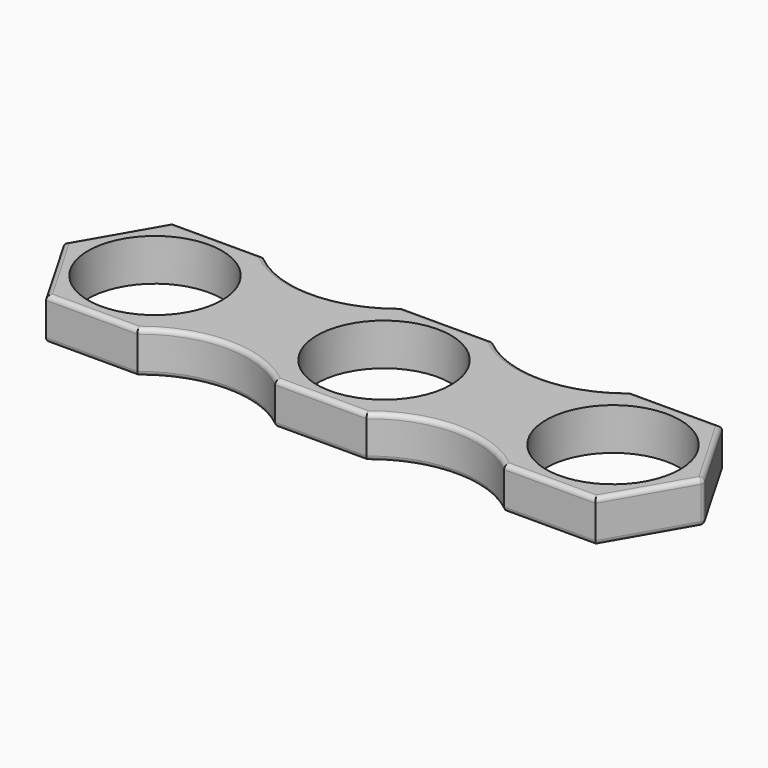
from build123d import *

# Parameters (mm, degrees)
F0_R     = 11
F1_DEPTH = 6.9088
F2_R     = 0.762


with BuildPart() as f1:
    # F0 (on Top) → F1 (new body)
    with BuildSketch(Plane.XY):
        with BuildLine():
            ThreePointArc((-30.12, -12.990381), (-18.81, -8.92943), (-7.5, -12.990381))
            Line((-7.5, -12.990381), (-15, 0))
            Line((-15, 0), (-7.5, 12.990381))
            ThreePointArc((-7.5, 12.990381), (-18.81, 8.92943), (-30.12, 12.990381))
            Line((-30.12, 12.990381), (-22.62, 0))
            Line((-22.62, 0), (-30.12, -12.990381))
        make_face()
        Polygon((22.62, 0), (30.12, -12.990381), (45.12, -12.990381), (52.62, 0), (45.12, 12.990381), (30.12, 12.990381), align=None)
        with Locations((37.62, 0)):
            Circle(F0_R, mode=Mode.SUBTRACT)
        Polygon((-45.12, -12.990381), (-30.12, -12.990381), (-22.62, 0), (-30.12, 12.990381), (-45.12, 12.990381), (-52.62, 0), align=None)
        with Locations((-37.62, 0)):
            Circle(F0_R, mode=Mode.SUBTRACT)
        Polygon((7.5, -12.990381), (15, 0), (7.5, 12.990381), (-7.5, 12.990381), (-15, 0), (-7.5, -12.990381), align=None)
        Circle(F0_R, mode=Mode.SUBTRACT)
        with BuildLine():
            Line((7.5, 12.990381), (15, 0))
            Line((15, 0), (7.5, -12.990381))
            ThreePointArc((7.5, -12.990381), (18.81, -8.92943), (30.12, -12.990381))
            Line((30.12, -12.990381), (22.62, 0))
            Line((22.62, 0), (30.12, 12.990381))
            ThreePointArc((30.12, 12.990381), (18.81, 8.92943), (7.5, 12.990381))
        make_face()
    extrude(amount=F1_DEPTH)

    # F2
    f2_edges = [f1.edges().sort_by_distance(p)[0] for p in [
        (-37.62, 12.990381, 6.9088),
        (-18.81, 8.92943, 6.9088),
        (0, 12.990381, 6.9088),
        (18.81, 8.92943, 6.9088),
        (48.87, 6.495191, 6.9088),
        (48.87, -6.495191, 6.9088),
        (37.62, -12.990381, 6.9088),
        (18.81, -8.92943, 6.9088),
        (0, -12.990381, 6.9088),
        (-37.62, -12.990381, 6.9088),
        (-48.87, 6.495191, 6.9088),
        (-48.87, -6.495191, 6.9088),
        (-18.81, -8.92943, 6.9088),
        (37.62, 12.990381, 6.9088),
        (18.81, -8.92943, 0),
        (0, -12.990381, 0),
        (-18.81, -8.92943, 0),
        (-37.62, -12.990381, 0),
        (-48.87, -6.495191, 0),
        (-48.87, 6.495191, 0),
        (37.62, -12.990381, 0),
        (48.87, -6.495191, 0),
        (52.62, 0, 3.4544),
        (37.62, 12.990381, 0),
        (18.81, 8.92943, 0),
        (0, 12.990381, 0),
        (-18.81, 8.92943, 0),
        (-37.62, 12.990381, 0),
        (48.87, 6.495191, 0),
    ]]
    fillet(f2_edges, radius=F2_R)


solid = f1.part
